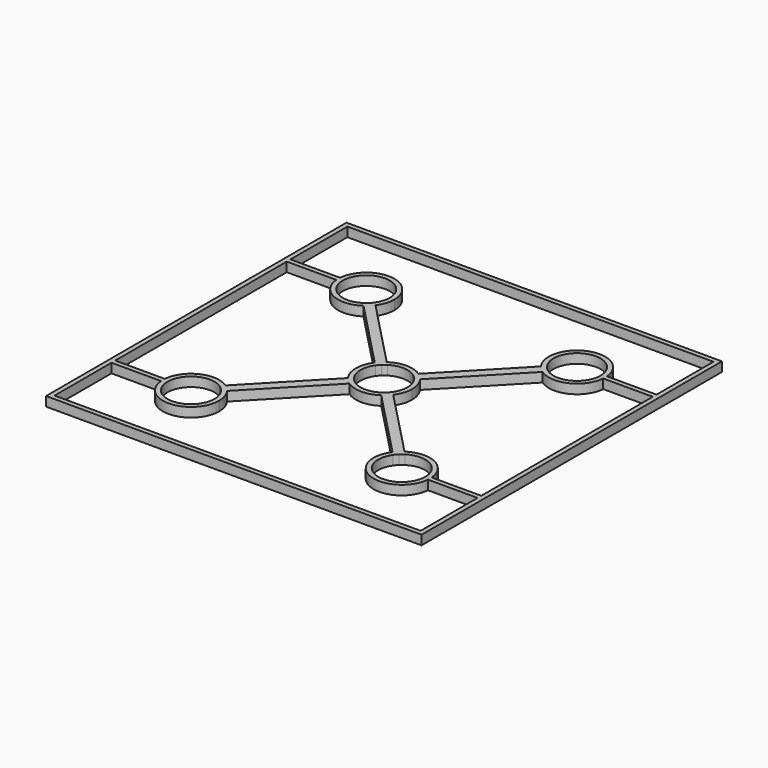
from build123d import *

# Parameters (mm, degrees)
F0_W     = 160
F0_H     = 160
F1_DEPTH = 4


with BuildPart() as f1:
    # F0 (on Top) → F1 (new body)
    with BuildSketch(Plane.XY):
        Rectangle(F0_W, F0_H)
        Polygon((78, -47.6726496816), (78, -78), (-78, -78), (-78, -47.6726496816), (-78, -45.6726496816), (-78, 45.6726496816), (-78, 47.6726496816), (-78, 78), (78, 78), (78, 47.6726496816), (78, 45.6726496816), (78, -45.6726496816), align=None, mode=Mode.SUBTRACT)
        with BuildLine():
            Line((-36.673598985, -40.9989881886), (-35.2631757885, -39.5331510668))
            ThreePointArc((-35.2631757885, -39.5331510668), (-35.8940102443, -38.7515774449), (-36.5879950856, -38.0254958538))
            Line((-36.5879950856, -38.0254958538), (-37.9747051278, -39.4666881584))
            ThreePointArc((-37.9747051278, -39.4666881584), (-37.2855518522, -40.2000619797), (-36.673598985, -40.9989881886))
        make_face()
        with BuildLine():
            ThreePointArc((-36.5879950856, -38.0254958538), (-37.3402685176, -37.3599929459), (-38.1455603978, -36.7597309824))
            Line((-38.1455603978, -36.7597309824), (-39.5559835942, -38.2255681043))
            ThreePointArc((-39.5559835942, -38.2255681043), (-38.7340792781, -38.8062941103), (-37.9747051278, -39.4666881584))
            Line((-37.9747051278, -39.4666881584), (-36.5879950856, -38.0254958538))
        make_face()
        with BuildLine():
            ThreePointArc((-56.866588672, -45.6735181142), (-56.9082553387, -46.6726496816), (-56.866588672, -47.6717812489))
            ThreePointArc((-56.866588672, -47.6717812489), (-44.4082553387, -58.6622284898), (-32.9082553387, -46.6726496816))
            ThreePointArc((-32.9082553387, -46.6726496816), (-33.5121824492, -42.9137239442), (-35.2631757885, -39.5331510668))
            Line((-35.2631757885, -39.5331510668), (-36.673598985, -40.9989881886))
            ThreePointArc((-36.673598985, -40.9989881886), (-35.3597852116, -43.7016703428), (-34.9082553387, -46.6726496816))
            ThreePointArc((-34.9082553387, -46.6726496816), (-53.6696113252, -51.4932970736), (-39.5559835942, -38.2255681043))
            Line((-39.5559835942, -38.2255681043), (-38.1455603978, -36.7597309824))
            ThreePointArc((-38.1455603978, -36.7597309824), (-50.0669920866, -35.83810146), (-56.866588672, -45.6735181142))
        make_face()
        with BuildLine():
            Line((8.2346563537, 5.673661493), (9.6450795502, 7.1394986148))
            ThreePointArc((9.6450795502, 7.1394986148), (9.0142450944, 7.9210722367), (8.3202602531, 8.6471538278))
            Line((8.3202602531, 8.6471538278), (6.9335502109, 7.2059615232))
            ThreePointArc((6.9335502109, 7.2059615232), (7.6227034864, 6.4725877018), (8.2346563537, 5.673661493))
        make_face()
        with BuildLine():
            ThreePointArc((8.3202602531, 8.6471538278), (7.567986821, 9.3126567357), (6.7626949409, 9.9129186992))
            Line((6.7626949409, 9.9129186992), (5.3522717444, 8.4470815773))
            ThreePointArc((5.3522717444, 8.4470815773), (6.1741760605, 7.8663555713), (6.9335502109, 7.2059615232))
            Line((6.9335502109, 7.2059615232), (8.3202602531, 8.6471538278))
        make_face()
        with BuildLine():
            Line((5.3522717444, 8.4470815773), (6.7626949409, 9.9129186992))
            ThreePointArc((6.7626949409, 9.9129186992), (0, 12), (-6.7626949409, 9.9129186992))
            Line((-6.7626949409, 9.9129186992), (-5.3522717444, 8.4470815773))
            ThreePointArc((-5.3522717444, 8.4470815773), (0, 10), (5.3522717444, 8.4470815773))
        make_face()
        with BuildLine():
            ThreePointArc((-6.7626949409, 9.9129186992), (-7.567986821, 9.3126567357), (-8.3202602531, 8.6471538278))
            Line((-8.3202602531, 8.6471538278), (-6.9335502109, 7.2059615232))
            ThreePointArc((-6.9335502109, 7.2059615232), (-6.1741760605, 7.8663555713), (-5.3522717444, 8.4470815773))
            Line((-5.3522717444, 8.4470815773), (-6.7626949409, 9.9129186992))
        make_face()
        with BuildLine():
            ThreePointArc((-8.3202602531, 8.6471538278), (-9.0142450944, 7.9210722367), (-9.6450795502, 7.1394986148))
            Line((-9.6450795502, 7.1394986148), (-8.2346563537, 5.673661493))
            ThreePointArc((-8.2346563537, 5.673661493), (-7.6227034864, 6.4725877018), (-6.9335502109, 7.2059615232))
            Line((-6.9335502109, 7.2059615232), (-8.3202602531, 8.6471538278))
        make_face()
        with BuildLine():
            ThreePointArc((-9.6450795502, 7.1394986148), (-12, 0), (-9.6450795502, -7.1394986148))
            Line((-9.6450795502, -7.1394986148), (-8.2346563537, -5.673661493))
            ThreePointArc((-8.2346563537, -5.673661493), (-10, 0), (-8.2346563537, 5.673661493))
            Line((-8.2346563537, 5.673661493), (-9.6450795502, 7.1394986148))
        make_face()
        with BuildLine():
            Line((-8.2346563537, -5.673661493), (-9.6450795502, -7.1394986148))
            ThreePointArc((-9.6450795502, -7.1394986148), (-9.0142450944, -7.9210722367), (-8.3202602531, -8.6471538278))
            Line((-8.3202602531, -8.6471538278), (-6.9335502109, -7.2059615232))
            ThreePointArc((-6.9335502109, -7.2059615232), (-7.6227034864, -6.4725877018), (-8.2346563537, -5.673661493))
        make_face()
        with BuildLine():
            ThreePointArc((-8.3202602531, -8.6471538278), (-7.567986821, -9.3126567357), (-6.7626949409, -9.9129186992))
            Line((-6.7626949409, -9.9129186992), (-5.3522717444, -8.4470815773))
            ThreePointArc((-5.3522717444, -8.4470815773), (-6.1741760605, -7.8663555713), (-6.9335502109, -7.2059615232))
            Line((-6.9335502109, -7.2059615232), (-8.3202602531, -8.6471538278))
        make_face()
        with BuildLine():
            ThreePointArc((-6.7626949409, -9.9129186992), (0, -12), (6.7626949409, -9.9129186992))
            Line((6.7626949409, -9.9129186992), (5.3522717444, -8.4470815773))
            ThreePointArc((5.3522717444, -8.4470815773), (0, -10), (-5.3522717444, -8.4470815773))
            Line((-5.3522717444, -8.4470815773), (-6.7626949409, -9.9129186992))
        make_face()
        with BuildLine():
            Line((5.3522717444, -8.4470815773), (6.7626949409, -9.9129186992))
            ThreePointArc((6.7626949409, -9.9129186992), (7.567986821, -9.3126567357), (8.3202602531, -8.6471538278))
            Line((8.3202602531, -8.6471538278), (6.9335502109, -7.2059615232))
            ThreePointArc((6.9335502109, -7.2059615232), (6.1741760605, -7.8663555713), (5.3522717444, -8.4470815773))
        make_face()
        with BuildLine():
            ThreePointArc((8.3202602531, -8.6471538278), (9.0142450944, -7.9210722367), (9.6450795502, -7.1394986148))
            Line((9.6450795502, -7.1394986148), (8.2346563537, -5.673661493))
            ThreePointArc((8.2346563537, -5.673661493), (7.6227034864, -6.4725877018), (6.9335502109, -7.2059615232))
            Line((6.9335502109, -7.2059615232), (8.3202602531, -8.6471538278))
        make_face()
        with BuildLine():
            Line((8.2346563537, -5.673661493), (9.6450795502, -7.1394986148))
            ThreePointArc((9.6450795502, -7.1394986148), (11.3960728894, -3.7589257374), (12, 0))
            ThreePointArc((12, 0), (11.3960728894, 3.7589257374), (9.6450795502, 7.1394986148))
            Line((9.6450795502, 7.1394986148), (8.2346563537, 5.673661493))
            ThreePointArc((8.2346563537, 5.673661493), (9.5484701271, 2.9709793388), (10, 0))
            ThreePointArc((10, 0), (9.5484701271, -2.9709793388), (8.2346563537, -5.673661493))
        make_face()
        with BuildLine():
            Line((39.5559835942, -38.2255681043), (38.1455603978, -36.7597309824))
            ThreePointArc((38.1455603978, -36.7597309824), (37.3402685176, -37.3599929459), (36.5879950856, -38.0254958538))
            Line((36.5879950856, -38.0254958538), (37.9747051278, -39.4666881584))
            ThreePointArc((37.9747051278, -39.4666881584), (38.7340792781, -38.8062941103), (39.5559835942, -38.2255681043))
        make_face()
        with BuildLine():
            ThreePointArc((36.5879950856, -38.0254958538), (35.8940102443, -38.7515774449), (35.2631757885, -39.5331510668))
            Line((35.2631757885, -39.5331510668), (36.673598985, -40.9989881886))
            ThreePointArc((36.673598985, -40.9989881886), (37.2855518522, -40.2000619797), (37.9747051278, -39.4666881584))
            Line((37.9747051278, -39.4666881584), (36.5879950856, -38.0254958538))
        make_face()
        with BuildLine():
            ThreePointArc((35.2631757885, -39.5331510668), (40.6777576047, -57.9022039436), (56.866588672, -47.6717812489))
            ThreePointArc((56.866588672, -47.6717812489), (56.897834147, -47.1726496816), (56.9082553387, -46.6726496816))
            ThreePointArc((56.9082553387, -46.6726496816), (56.897834147, -46.1726496816), (56.866588672, -45.6735181142))
            ThreePointArc((56.866588672, -45.6735181142), (50.0669920866, -35.83810146), (38.1455603978, -36.7597309824))
            Line((38.1455603978, -36.7597309824), (39.5559835942, -38.2255681043))
            ThreePointArc((39.5559835942, -38.2255681043), (49.7289027307, -37.9112936951), (54.9082553387, -46.6726496816))
            ThreePointArc((54.9082553387, -46.6726496816), (41.9372759999, -56.2211198087), (36.673598985, -40.9989881886))
            Line((36.673598985, -40.9989881886), (35.2631757885, -39.5331510668))
        make_face()
        with BuildLine():
            Line((36.673598985, 40.9989881886), (35.2631757885, 39.5331510668))
            ThreePointArc((35.2631757885, 39.5331510668), (35.8940102443, 38.7515774449), (36.5879950856, 38.0254958538))
            Line((36.5879950856, 38.0254958538), (37.9747051278, 39.4666881584))
            ThreePointArc((37.9747051278, 39.4666881584), (37.2855518522, 40.2000619797), (36.673598985, 40.9989881886))
        make_face()
        with BuildLine():
            ThreePointArc((36.5879950856, 38.0254958538), (37.3402685176, 37.3599929459), (38.1455603978, 36.7597309824))
            Line((38.1455603978, 36.7597309824), (39.5559835942, 38.2255681043))
            ThreePointArc((39.5559835942, 38.2255681043), (38.7340792781, 38.8062941103), (37.9747051278, 39.4666881584))
            Line((37.9747051278, 39.4666881584), (36.5879950856, 38.0254958538))
        make_face()
        with BuildLine():
            ThreePointArc((38.1455603978, 36.7597309824), (50.0669920866, 35.83810146), (56.866588672, 45.6735181142))
            ThreePointArc((56.866588672, 45.6735181142), (56.897834147, 46.1726496816), (56.9082553387, 46.6726496816))
            ThreePointArc((56.9082553387, 46.6726496816), (56.897834147, 47.1726496816), (56.866588672, 47.6717812489))
            ThreePointArc((56.866588672, 47.6717812489), (40.6777576047, 57.9022039436), (35.2631757885, 39.5331510668))
            Line((35.2631757885, 39.5331510668), (36.673598985, 40.9989881886))
            ThreePointArc((36.673598985, 40.9989881886), (41.9372759999, 56.2211198087), (54.9082553387, 46.6726496816))
            ThreePointArc((54.9082553387, 46.6726496816), (49.7289027307, 37.9112936951), (39.5559835942, 38.2255681043))
            Line((39.5559835942, 38.2255681043), (38.1455603978, 36.7597309824))
        make_face()
        with BuildLine():
            Line((-39.5559835942, 38.2255681043), (-38.1455603978, 36.7597309824))
            ThreePointArc((-38.1455603978, 36.7597309824), (-37.3402685176, 37.3599929459), (-36.5879950856, 38.0254958538))
            Line((-36.5879950856, 38.0254958538), (-37.9747051278, 39.4666881584))
            ThreePointArc((-37.9747051278, 39.4666881584), (-38.7340792781, 38.8062941103), (-39.5559835942, 38.2255681043))
        make_face()
        with BuildLine():
            Line((-37.9747051278, 39.4666881584), (-36.5879950856, 38.0254958538))
            ThreePointArc((-36.5879950856, 38.0254958538), (-35.8940102443, 38.7515774449), (-35.2631757885, 39.5331510668))
            Line((-35.2631757885, 39.5331510668), (-36.673598985, 40.9989881886))
            ThreePointArc((-36.673598985, 40.9989881886), (-37.2855518522, 40.2000619797), (-37.9747051278, 39.4666881584))
        make_face()
        with BuildLine():
            ThreePointArc((-56.866588672, 47.6717812489), (-56.9082553387, 46.6726496816), (-56.866588672, 45.6735181142))
            ThreePointArc((-56.866588672, 45.6735181142), (-50.0669920866, 35.83810146), (-38.1455603978, 36.7597309824))
            Line((-38.1455603978, 36.7597309824), (-39.5559835942, 38.2255681043))
            ThreePointArc((-39.5559835942, 38.2255681043), (-53.6696113252, 51.4932970736), (-34.9082553387, 46.6726496816))
            ThreePointArc((-34.9082553387, 46.6726496816), (-35.3597852116, 43.7016703428), (-36.673598985, 40.9989881886))
            Line((-36.673598985, 40.9989881886), (-35.2631757885, 39.5331510668))
            ThreePointArc((-35.2631757885, 39.5331510668), (-33.5121824492, 42.9137239442), (-32.9082553387, 46.6726496816))
            ThreePointArc((-32.9082553387, 46.6726496816), (-44.4082553387, 58.6622284898), (-56.866588672, 47.6717812489))
        make_face()
        with BuildLine():
            ThreePointArc((-36.5879950856, 38.0254958538), (-37.3402685176, 37.3599929459), (-38.1455603978, 36.7597309824))
            Line((-38.1455603978, 36.7597309824), (-9.6450795502, 7.1394986148))
            ThreePointArc((-9.6450795502, 7.1394986148), (-9.0142450944, 7.9210722367), (-8.3202602531, 8.6471538278))
            Line((-8.3202602531, 8.6471538278), (-36.5879950856, 38.0254958538))
        make_face()
        with BuildLine():
            ThreePointArc((-35.2631757885, 39.5331510668), (-35.8940102443, 38.7515774449), (-36.5879950856, 38.0254958538))
            Line((-36.5879950856, 38.0254958538), (-8.3202602531, 8.6471538278))
            ThreePointArc((-8.3202602531, 8.6471538278), (-7.567986821, 9.3126567357), (-6.7626949409, 9.9129186992))
            Line((-6.7626949409, 9.9129186992), (-35.2631757885, 39.5331510668))
        make_face()
        with BuildLine():
            Line((-9.6450795502, -7.1394986148), (-38.1455603978, -36.7597309824))
            ThreePointArc((-38.1455603978, -36.7597309824), (-37.3402685176, -37.3599929459), (-36.5879950856, -38.0254958538))
            Line((-36.5879950856, -38.0254958538), (-8.3202602531, -8.6471538278))
            ThreePointArc((-8.3202602531, -8.6471538278), (-9.0142450944, -7.9210722367), (-9.6450795502, -7.1394986148))
        make_face()
        with BuildLine():
            ThreePointArc((-36.5879950856, -38.0254958538), (-35.8940102443, -38.7515774449), (-35.2631757885, -39.5331510668))
            Line((-35.2631757885, -39.5331510668), (-6.7626949409, -9.9129186992))
            ThreePointArc((-6.7626949409, -9.9129186992), (-7.567986821, -9.3126567357), (-8.3202602531, -8.6471538278))
            Line((-8.3202602531, -8.6471538278), (-36.5879950856, -38.0254958538))
        make_face()
        with BuildLine():
            Line((6.7626949409, -9.9129186992), (35.2631757885, -39.5331510668))
            ThreePointArc((35.2631757885, -39.5331510668), (35.8940102443, -38.7515774449), (36.5879950856, -38.0254958538))
            Line((36.5879950856, -38.0254958538), (8.3202602531, -8.6471538278))
            ThreePointArc((8.3202602531, -8.6471538278), (7.567986821, -9.3126567357), (6.7626949409, -9.9129186992))
        make_face()
        with BuildLine():
            ThreePointArc((36.5879950856, -38.0254958538), (37.3402685176, -37.3599929459), (38.1455603978, -36.7597309824))
            Line((38.1455603978, -36.7597309824), (9.6450795502, -7.1394986148))
            ThreePointArc((9.6450795502, -7.1394986148), (9.0142450944, -7.9210722367), (8.3202602531, -8.6471538278))
            Line((8.3202602531, -8.6471538278), (36.5879950856, -38.0254958538))
        make_face()
        with BuildLine():
            Line((9.6450795502, 7.1394986148), (38.1455603978, 36.7597309824))
            ThreePointArc((38.1455603978, 36.7597309824), (37.3402685176, 37.3599929459), (36.5879950856, 38.0254958538))
            Line((36.5879950856, 38.0254958538), (8.3202602531, 8.6471538278))
            ThreePointArc((8.3202602531, 8.6471538278), (9.0142450944, 7.9210722367), (9.6450795502, 7.1394986148))
        make_face()
        with BuildLine():
            ThreePointArc((36.5879950856, 38.0254958538), (35.8940102443, 38.7515774449), (35.2631757885, 39.5331510668))
            Line((35.2631757885, 39.5331510668), (6.7626949409, 9.9129186992))
            ThreePointArc((6.7626949409, 9.9129186992), (7.567986821, 9.3126567357), (8.3202602531, 8.6471538278))
            Line((8.3202602531, 8.6471538278), (36.5879950856, 38.0254958538))
        make_face()
        with BuildLine():
            Line((-78, 47.6726496816), (-78, 45.6726496816))
            Line((-78, 45.6726496816), (-56.9082553387, 45.6726496816))
            ThreePointArc((-56.9082553387, 45.6726496816), (-56.8874174808, 45.6728668133), (-56.866588672, 45.6735181142))
            ThreePointArc((-56.866588672, 45.6735181142), (-56.9082553387, 46.6726496816), (-56.866588672, 47.6717812489))
            ThreePointArc((-56.866588672, 47.6717812489), (-56.8874174808, 47.6724325498), (-56.9082553387, 47.6726496816))
            Line((-56.9082553387, 47.6726496816), (-78, 47.6726496816))
        make_face()
        with BuildLine():
            ThreePointArc((-56.866588672, 47.6717812489), (-56.9082553387, 46.6726496816), (-56.866588672, 45.6735181142))
            ThreePointArc((-56.866588672, 45.6735181142), (-50.0669920866, 35.83810146), (-38.1455603978, 36.7597309824))
            Line((-38.1455603978, 36.7597309824), (-39.5559835942, 38.2255681043))
            ThreePointArc((-39.5559835942, 38.2255681043), (-53.6696113252, 51.4932970736), (-34.9082553387, 46.6726496816))
            ThreePointArc((-34.9082553387, 46.6726496816), (-35.3597852116, 43.7016703428), (-36.673598985, 40.9989881886))
            Line((-36.673598985, 40.9989881886), (-35.2631757885, 39.5331510668))
            ThreePointArc((-35.2631757885, 39.5331510668), (-33.5121824492, 42.9137239442), (-32.9082553387, 46.6726496816))
            ThreePointArc((-32.9082553387, 46.6726496816), (-44.4082553387, 58.6622284898), (-56.866588672, 47.6717812489))
        make_face()
        with BuildLine():
            ThreePointArc((38.1455603978, 36.7597309824), (50.0669920866, 35.83810146), (56.866588672, 45.6735181142))
            ThreePointArc((56.866588672, 45.6735181142), (56.897834147, 46.1726496816), (56.9082553387, 46.6726496816))
            ThreePointArc((56.9082553387, 46.6726496816), (56.897834147, 47.1726496816), (56.866588672, 47.6717812489))
            ThreePointArc((56.866588672, 47.6717812489), (40.6777576047, 57.9022039436), (35.2631757885, 39.5331510668))
            Line((35.2631757885, 39.5331510668), (36.673598985, 40.9989881886))
            ThreePointArc((36.673598985, 40.9989881886), (41.9372759999, 56.2211198087), (54.9082553387, 46.6726496816))
            ThreePointArc((54.9082553387, 46.6726496816), (49.7289027307, 37.9112936951), (39.5559835942, 38.2255681043))
            Line((39.5559835942, 38.2255681043), (38.1455603978, 36.7597309824))
        make_face()
        with BuildLine():
            Line((56.9082553387, 45.6726496816), (78, 45.6726496816))
            Line((78, 45.6726496816), (78, 47.6726496816))
            Line((78, 47.6726496816), (56.9082553387, 47.6726496816))
            ThreePointArc((56.9082553387, 47.6726496816), (56.8874174808, 47.6724325498), (56.866588672, 47.6717812489))
            ThreePointArc((56.866588672, 47.6717812489), (56.897834147, 47.1726496816), (56.9082553387, 46.6726496816))
            ThreePointArc((56.9082553387, 46.6726496816), (56.897834147, 46.1726496816), (56.866588672, 45.6735181142))
            ThreePointArc((56.866588672, 45.6735181142), (56.8874174808, 45.6728668133), (56.9082553387, 45.6726496816))
        make_face()
        with BuildLine():
            ThreePointArc((35.2631757885, -39.5331510668), (40.6777576047, -57.9022039436), (56.866588672, -47.6717812489))
            ThreePointArc((56.866588672, -47.6717812489), (56.897834147, -47.1726496816), (56.9082553387, -46.6726496816))
            ThreePointArc((56.9082553387, -46.6726496816), (56.897834147, -46.1726496816), (56.866588672, -45.6735181142))
            ThreePointArc((56.866588672, -45.6735181142), (50.0669920866, -35.83810146), (38.1455603978, -36.7597309824))
            Line((38.1455603978, -36.7597309824), (39.5559835942, -38.2255681043))
            ThreePointArc((39.5559835942, -38.2255681043), (49.7289027307, -37.9112936951), (54.9082553387, -46.6726496816))
            ThreePointArc((54.9082553387, -46.6726496816), (41.9372759999, -56.2211198087), (36.673598985, -40.9989881886))
            Line((36.673598985, -40.9989881886), (35.2631757885, -39.5331510668))
        make_face()
        with BuildLine():
            Line((56.9082553387, -47.6726496816), (78, -47.6726496816))
            Line((78, -47.6726496816), (78, -45.6726496816))
            Line((78, -45.6726496816), (56.9082553387, -45.6726496816))
            ThreePointArc((56.9082553387, -45.6726496816), (56.8874174808, -45.6728668133), (56.866588672, -45.6735181142))
            ThreePointArc((56.866588672, -45.6735181142), (56.897834147, -46.1726496816), (56.9082553387, -46.6726496816))
            ThreePointArc((56.9082553387, -46.6726496816), (56.897834147, -47.1726496816), (56.866588672, -47.6717812489))
            ThreePointArc((56.866588672, -47.6717812489), (56.8874174808, -47.6724325498), (56.9082553387, -47.6726496816))
        make_face()
        with BuildLine():
            ThreePointArc((-56.866588672, -45.6735181142), (-56.9082553387, -46.6726496816), (-56.866588672, -47.6717812489))
            ThreePointArc((-56.866588672, -47.6717812489), (-44.4082553387, -58.6622284898), (-32.9082553387, -46.6726496816))
            ThreePointArc((-32.9082553387, -46.6726496816), (-33.5121824492, -42.9137239442), (-35.2631757885, -39.5331510668))
            Line((-35.2631757885, -39.5331510668), (-36.673598985, -40.9989881886))
            ThreePointArc((-36.673598985, -40.9989881886), (-35.3597852116, -43.7016703428), (-34.9082553387, -46.6726496816))
            ThreePointArc((-34.9082553387, -46.6726496816), (-53.6696113252, -51.4932970736), (-39.5559835942, -38.2255681043))
            Line((-39.5559835942, -38.2255681043), (-38.1455603978, -36.7597309824))
            ThreePointArc((-38.1455603978, -36.7597309824), (-50.0669920866, -35.83810146), (-56.866588672, -45.6735181142))
        make_face()
        with BuildLine():
            Line((-78, -45.6726496816), (-78, -47.6726496816))
            Line((-78, -47.6726496816), (-56.9082553387, -47.6726496816))
            ThreePointArc((-56.9082553387, -47.6726496816), (-56.8874174808, -47.6724325498), (-56.866588672, -47.6717812489))
            ThreePointArc((-56.866588672, -47.6717812489), (-56.9082553387, -46.6726496816), (-56.866588672, -45.6735181142))
            ThreePointArc((-56.866588672, -45.6735181142), (-56.8874174808, -45.6728668133), (-56.9082553387, -45.6726496816))
            Line((-56.9082553387, -45.6726496816), (-78, -45.6726496816))
        make_face()
    extrude(amount=F1_DEPTH)


solid = f1.part
